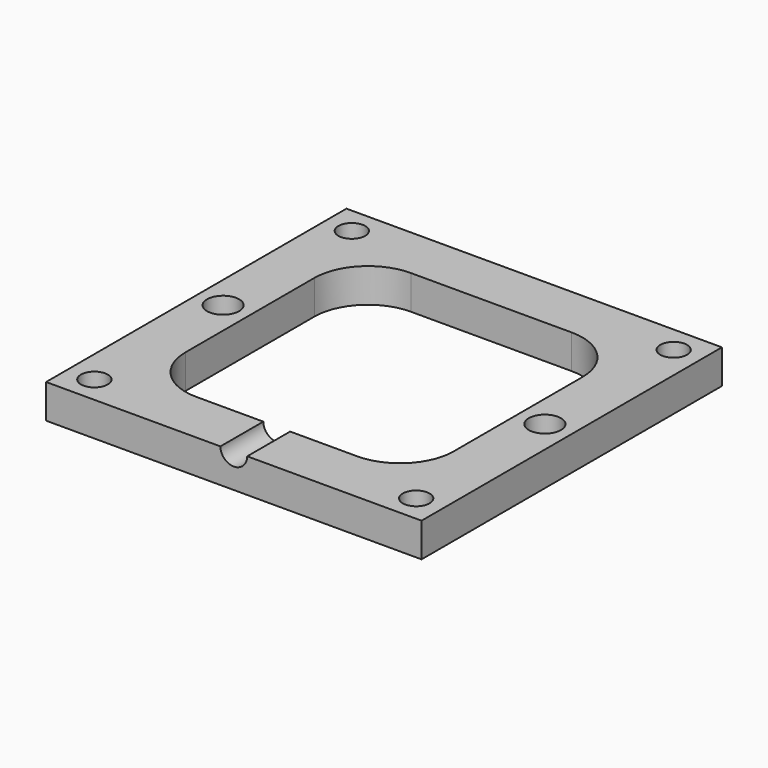
from build123d import *

# Parameters (mm, degrees)
F1_DEPTH = 6.35
F3_D     = 5
F3_DEPTH = 14.4
F3_TIP   = 1.5021515476
F5_D     = 5
F5_DEPTH = 15
F5_TIP   = 1.5021515476


with BuildPart() as f1:
    # F0 (on Top) → F1 (new body)
    with BuildSketch(Plane.XY):
        with BuildLine():
            Line((-35, -35), (35, -35))
            Line((35, -35), (35, 0))
            Line((35, 0), (33, 0))
            ThreePointArc((33, 0), (30, -3), (27, 0))
            Line((27, 0), (25, 0))
            Line((25, 0), (25, -15))
            ThreePointArc((25, -15), (22.0710678119, -22.0710678119), (15, -25))
            Line((15, -25), (-15, -25))
            ThreePointArc((-15, -25), (-22.0710678119, -22.0710678119), (-25, -15))
            Line((-25, -15), (-25, 0))
            Line((-25, 0), (-27, 0))
            ThreePointArc((-27, 0), (-30, -3), (-33, 0))
            Line((-33, 0), (-35, 0))
            Line((-35, 0), (-35, -35))
        make_face()
        with BuildLine():
            Line((33, 0), (35, 0))
            Line((35, 0), (35, 35))
            Line((35, 35), (-35, 35))
            Line((-35, 35), (-35, 0))
            Line((-35, 0), (-33, 0))
            ThreePointArc((-33, 0), (-30, 3), (-27, 0))
            Line((-27, 0), (-25, 0))
            Line((-25, 0), (-25, 15))
            ThreePointArc((-25, 15), (-22.0710678119, 22.0710678119), (-15, 25))
            Line((-15, 25), (15, 25))
            ThreePointArc((15, 25), (22.0710678119, 22.0710678119), (25, 15))
            Line((25, 15), (25, 0))
            Line((25, 0), (27, 0))
            ThreePointArc((27, 0), (30, 3), (33, 0))
        make_face()
    extrude(amount=F1_DEPTH)

    # F3
    with Locations(Plane.XZ.offset(35)):
        with Locations((0, 6.35)):
            Hole(F3_D / 2, depth=F3_DEPTH)
            with Locations((0, 0, -(F3_DEPTH + F3_TIP / 2))):  # 118° drill point
                Cone(0, F3_D / 2, F3_TIP, mode=Mode.SUBTRACT)

    # F5
    with Locations(Plane(origin=(0, 0, 0), x_dir=(1, 0, 0), z_dir=(0, 0, -1))):
        with Locations((-30, 30), (30, 30), (30, -30), (-30, -30)):
            Hole(F5_D / 2, depth=F5_DEPTH)
            with Locations((0, 0, -(F5_DEPTH + F5_TIP / 2))):  # 118° drill point
                Cone(0, F5_D / 2, F5_TIP, mode=Mode.SUBTRACT)


solid = f1.part
